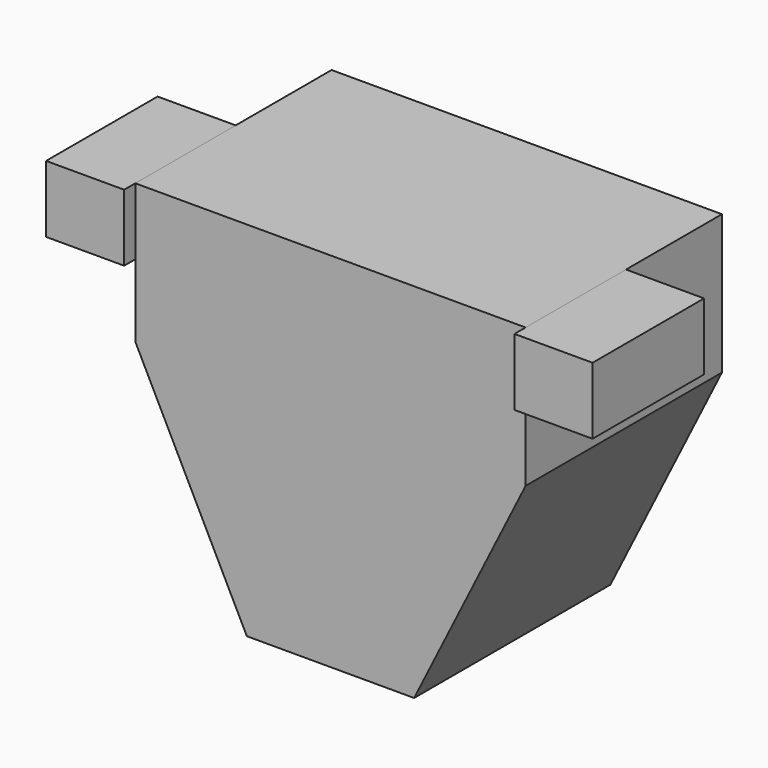
from build123d import *

# Parameters (mm, degrees)
F1_DEPTH  = 440
F2_W      = 140
F2_H      = 120
F3_DEPTH  = 25
F3_FACE_W = 140
F3_FACE_H = 120
F4_DEPTH  = 250


with BuildPart() as f1:
    # F0 (on Front) → F1 (new body)
    with BuildSketch(Plane.XZ):
        Polygon((-150, -325), (150, -325), (350, 75), (350, 325), (-350, 325), (-350, 75), align=None)
    extrude(amount=F1_DEPTH)


with BuildPart() as f3:
    # F2 (on face) → F3 (new body)
    with BuildSketch(Plane.XZ.offset(440)):
        with Locations((-420, 265)):
            Rectangle(F2_W, F2_H)
        with Locations((420, 265)):
            Rectangle(F2_W, F2_H)
    extrude(amount=F3_DEPTH)


with BuildPart() as f4:
    # F3_face (on face) → F4 (new body)
    with BuildSketch(Plane(origin=(-420, -465, 265), x_dir=(1, 0, 0), z_dir=(0, -1, 0))):
        Rectangle(F3_FACE_W, F3_FACE_H)
        with Locations((840, 0)):
            Rectangle(F3_FACE_W, F3_FACE_H)
    extrude(amount=-F4_DEPTH)


solid = Compound([f1.part, f3.part, f4.part])
